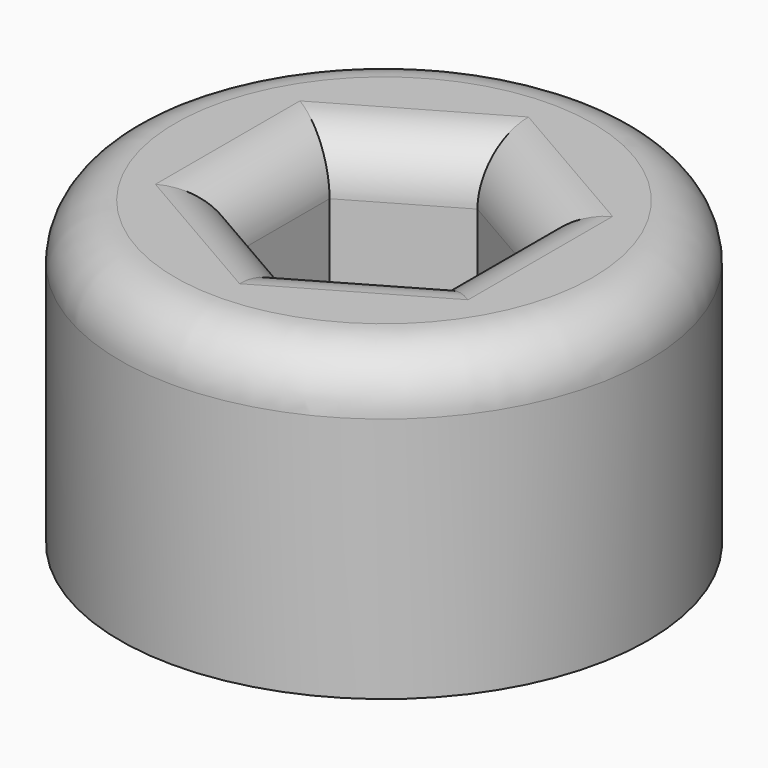
from build123d import *

# Parameters (mm, degrees)
F0_R     = 7.175426
F1_DEPTH = 7
F2_R     = 7.175426
F2_R_2   = 1.6
F3_DEPTH = 1.2
F4_R     = 1.5


with BuildPart() as f1:
    # F0 (on Top) → F1 (new body)
    with BuildSketch(Plane.XY):
        Circle(F0_R)
        Polygon((0, -3.175426), (-2.75, -1.587713), (-2.75, 1.587713), (0, 3.175426), (2.75, 1.587713), (2.75, -1.587713), align=None, mode=Mode.SUBTRACT)
    extrude(amount=F1_DEPTH)

    # F2 (on face) → F3 (join)
    with BuildSketch(Plane(origin=(0, 0, 0), x_dir=(1, 0, 0), z_dir=(0, 0, -1))):
        Circle(F2_R)
        Circle(F2_R_2, mode=Mode.SUBTRACT)
    extrude(amount=F3_DEPTH)

    # F4
    f4_edges = [f1.edges().sort_by_distance(p)[0] for p in [
        (-7.175426, 0, 7),
        (-1.375, -2.38157, 7),
        (-2.75, 0, 7),
        (-1.375, 2.38157, 7),
        (1.375, 2.38157, 7),
        (2.75, 0, 7),
        (1.375, -2.38157, 7),
    ]]
    fillet(f4_edges, radius=F4_R)


solid = f1.part
